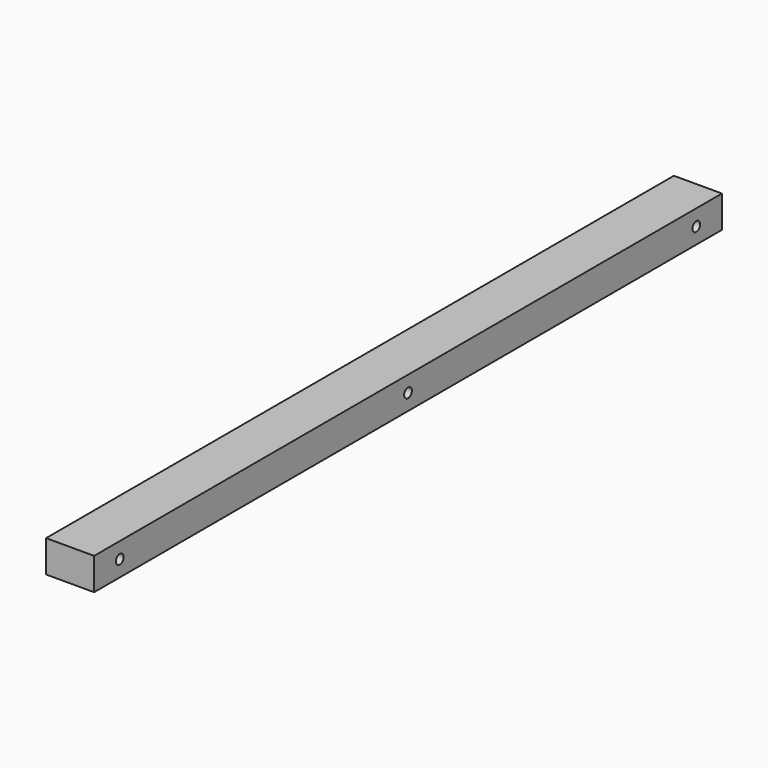
from build123d import *

# Parameters (mm, degrees)
F0_W     = 15
F0_H     = 245
F1_DEPTH = 10
F3_D     = 3
F3_DEPTH = 12
F3_TIP   = 0.9012909285


with BuildPart() as f1:
    # F0 (on Top) → F1 (new body)
    with BuildSketch(Plane.XY):
        with Locations((7.5, -122.5)):
            Rectangle(F0_W, F0_H)
    extrude(amount=F1_DEPTH)

    # F3
    with Locations(Plane.YZ.offset(15)):
        with Locations((-235, 5), (-122.5, 5), (-10, 5)):
            Hole(F3_D / 2, depth=F3_DEPTH)
            with Locations((0, 0, -(F3_DEPTH + F3_TIP / 2))):  # 118° drill point
                Cone(0, F3_D / 2, F3_TIP, mode=Mode.SUBTRACT)


solid = f1.part
